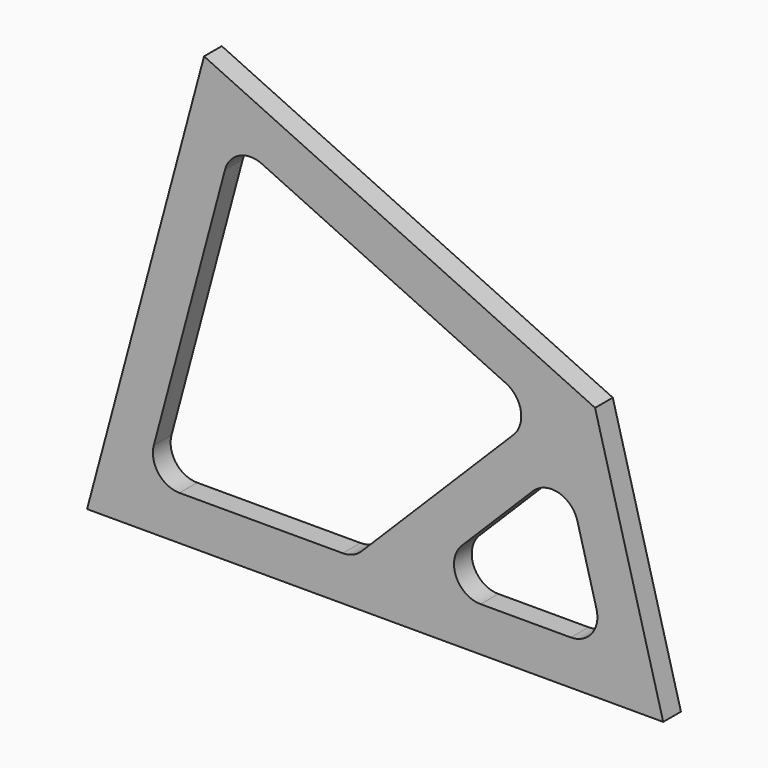
from build123d import *

# Parameters (mm, degrees)
F1_DEPTH = 6.35
F2_R     = 7.62


with BuildPart() as f1:
    # F0 (on Front) → F1 (new body)
    with BuildSketch(Plane.XZ):
        Polygon((33.527419, 125.126032), (0, 0), (165.1, 0), (145.572215, 72.878685), align=None)
        Polygon((16.550962, 12.7), (41.877381, 107.219481), (129.891225, 66.177951), (76.413274, 12.7), align=None, mode=Mode.SUBTRACT)
        Polygon((94.373786, 12.7), (137.10046, 55.426674), (148.549038, 12.7), align=None, mode=Mode.SUBTRACT)
    extrude(amount=F1_DEPTH)

    # F2
    f2_edges = [f1.edges().sort_by_distance(p)[0] for p in [
        (41.877381, -3.175, 107.219481),
        (16.550962, -3.175, 12.7),
        (76.413274, -3.175, 12.7),
        (129.891225, -3.175, 66.177951),
        (137.10046, -3.175, 55.426674),
        (94.373786, -3.175, 12.7),
        (148.549038, -3.175, 12.7),
    ]]
    fillet(f2_edges, radius=F2_R)


solid = f1.part
